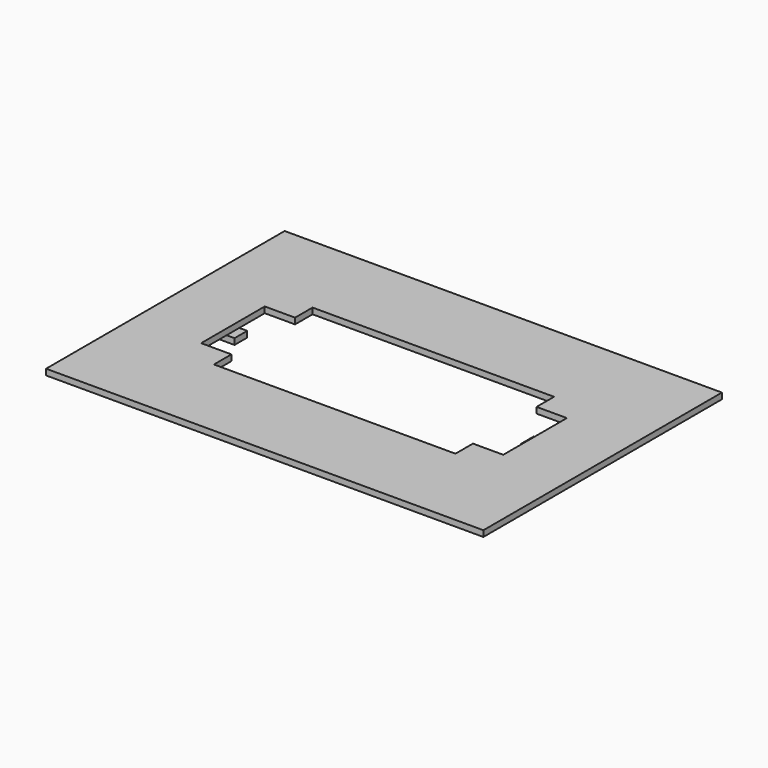
from build123d import *

# Parameters (mm, degrees)
F2_W     = 220
F2_H     = 150
F2_W_2   = 121.5
F2_H_2   = 62
F3_DEPTH = 3
F1_W     = 152
F1_H     = 40
F4_DEPTH = 3
F5_W     = 8
F5_H     = 8
F7_DEPTH = 3
F6_W     = 8
F6_H     = 8
F8_DEPTH = 3


with BuildPart() as f3:
    # F2 (on face) → F3 (new body)
    with BuildSketch(Plane.XY):
        with Locations((110, -75)):
            Rectangle(F2_W, F2_H)
        with Locations((110, -75)):
            Rectangle(F2_W_2, F2_H_2, mode=Mode.SUBTRACT)
    extrude(amount=F3_DEPTH)

    # F1 (on face) → F4 (cut)
    with BuildSketch(Plane.XY):
        with Locations((110, -75)):
            Rectangle(F1_W, F1_H)
    extrude(amount=F4_DEPTH, mode=Mode.SUBTRACT)

    # F5 (on face) → F7 (join)
    with BuildSketch(Plane.XY):
        with Locations((34, -75)):
            Rectangle(F5_W, F5_H)
    extrude(amount=-F7_DEPTH)

    # F6 (on face) → F8 (join)
    with BuildSketch(Plane.XY):
        with Locations((186, -75)):
            Rectangle(F6_W, F6_H)
    extrude(amount=-F8_DEPTH)


solid = f3.part
